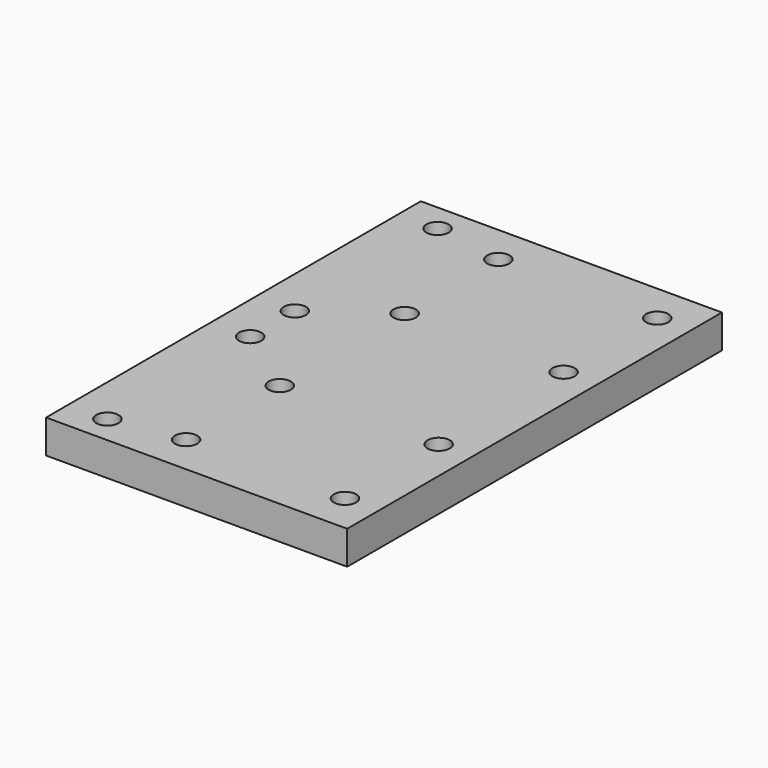
from build123d import *

# Parameters (mm, degrees)
F0_W     = 54
F0_H     = 84
F1_DEPTH = 6
F3_R     = 2
F4_DEPTH = 6


with BuildPart() as f1:
    # F0 (on Top) → F1 (new body)
    with BuildSketch(Plane.XY):
        Rectangle(F0_W, F0_H)
    extrude(amount=F1_DEPTH)

    # F3 (on face) → F4 (cut, through all)
    with BuildSketch(Plane.XY.offset(6)):
        with Locations((-7.5, 14)):
            Circle(F3_R)
        with Locations((-7.5, -14)):
            Circle(F3_R)
        with Locations((-20, 5)):
            Circle(F3_R)
        with Locations((-20, -5)):
            Circle(F3_R)
        with Locations((21, 14)):
            Circle(F3_R)
        with Locations((21, -14)):
            Circle(F3_R)
        with Locations((21, -35)):
            Circle(F3_R)
        with Locations((21, 35)):
            Circle(F3_R)
        with Locations((-20, 37)):
            Circle(F3_R)
        with Locations((-7.5, 35)):
            Circle(F3_R)
        with Locations((-20, -37)):
            Circle(F3_R)
        with Locations((-7.5, -35)):
            Circle(F3_R)
    extrude(amount=-F4_DEPTH, mode=Mode.SUBTRACT)


solid = f1.part
